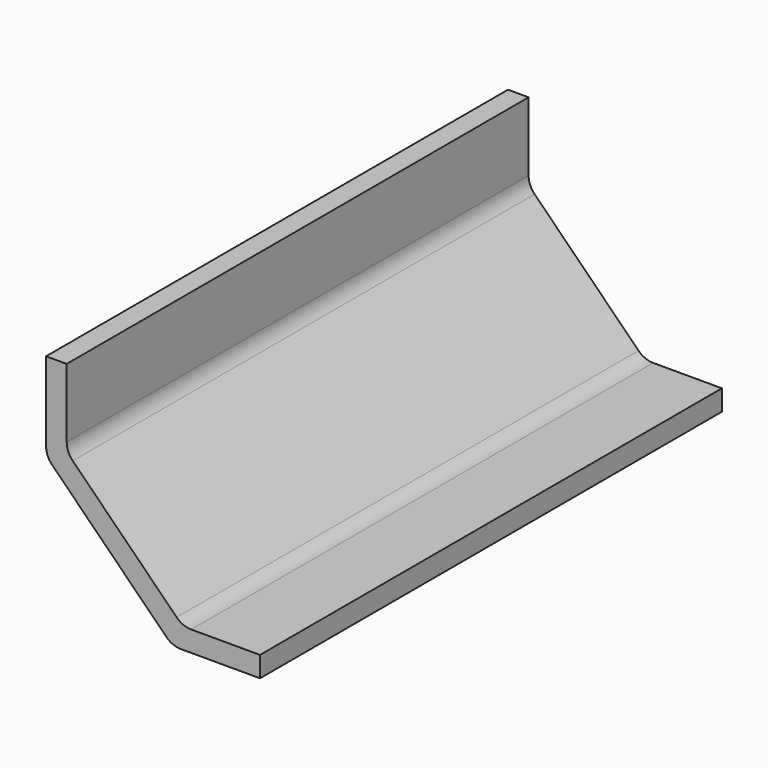
from build123d import *

# Parameters (mm, degrees)
F0_W     = 8
F0_H     = 30
F0_W_2   = 30
F0_H_2   = 8
F1_DEPTH = 224
F2_R     = 8
F3_R     = 8


with BuildPart() as f1:
    # F0 (on Front) → F1 (new body)
    with BuildSketch(Plane.XZ):
        with Locations((-20.8588695079, 39.1709680259)):
            Rectangle(F0_W, F0_H)
        Polygon((-16.8588695079, 24.1709680259), (-24.8588695079, 24.1709680259), (-24.8588695079, 20.1709680259), align=None)
        Polygon((28.1411304921, -20.8290319741), (-16.8588695079, 24.1709680259), (-24.8588695079, 20.1709680259), (24.1411304921, -28.8290319741), align=None)
        with Locations((43.1411304921, -24.8290319741)):
            Rectangle(F0_W_2, F0_H_2)
        Polygon((28.1411304921, -28.8290319741), (28.1411304921, -20.8290319741), (24.1411304921, -28.8290319741), align=None)
    extrude(amount=F1_DEPTH)

    # F2
    f2_edges = [f1.edges().sort_by_distance(p)[0] for p in [
        (-16.85887, -112, 24.170968),
        (28.14113, -112, -20.829032),
    ]]
    fillet(f2_edges, radius=F2_R)

    # F3
    f3_edges = [f1.edges().sort_by_distance(p)[0] for p in [
        (-24.85887, -112, 20.170968),
        (24.14113, -112, -28.829032),
    ]]
    fillet(f3_edges, radius=F3_R)


solid = f1.part
